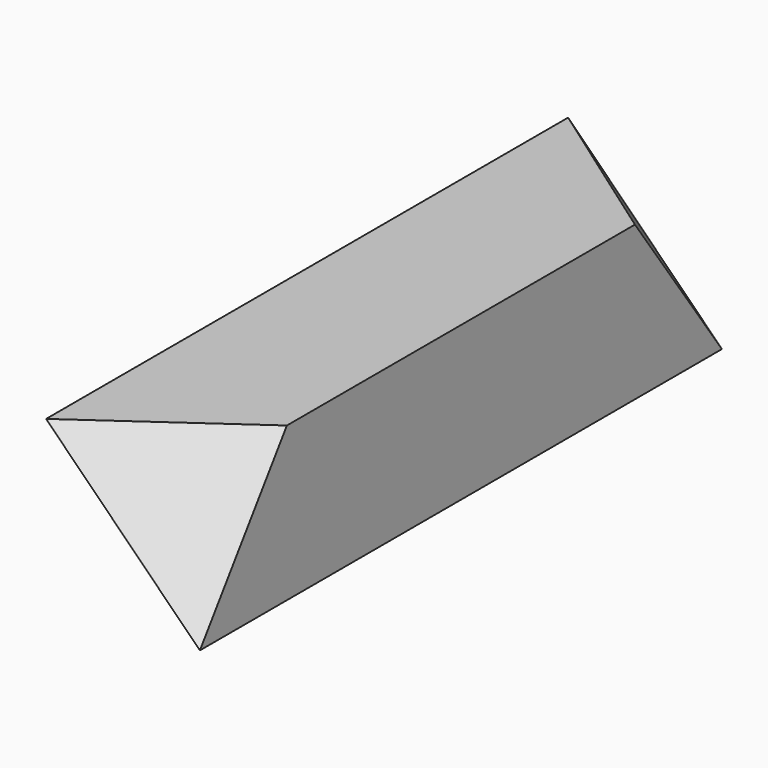
from build123d import *

# Parameters (mm, degrees)
F0_W     = 10.6066017178
F0_H     = 10.6066017178
F1_DEPTH = 22.5
F4_DEPTH = 15


with BuildPart() as f1:
    # F0 (on Front) → F1 (new body, symmetric)
    with BuildSketch(Plane.XZ):
        Rectangle(F0_W, F0_H)
    extrude(amount=F1_DEPTH, both=True)

    # F3 (on 3pt) → F4 (cut, symmetric)
    with BuildSketch(Plane(origin=(0, 0, 0), x_dir=(0, 1, 0), z_dir=(0.7071067812, 0, -0.7071067812))):
        Polygon((-15, -7.5), (-22.5, 0), (-15, 7.5), (-15, 9.5), (-24.5, 9.5), (-24.5, -9.5), (-15, -9.5), align=None)
        Polygon((15, 7.5), (22.5, 0), (15, -7.5), (15, -9.5), (24.5, -9.5), (24.5, 9.5), (15, 9.5), align=None)
    extrude(amount=F4_DEPTH, both=True, mode=Mode.SUBTRACT)


solid = f1.part
